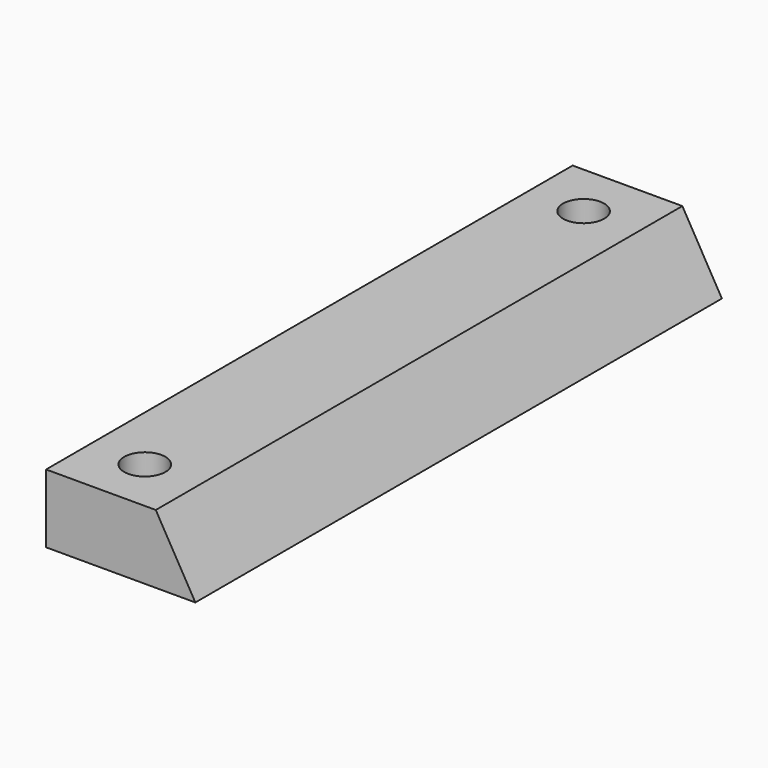
from build123d import *

# Parameters (mm, degrees)
F1_DEPTH = 152.4
F2_R     = 4.7625
F3_DEPTH = 25.4


with BuildPart() as f1:
    # F0 (on Front) → F1 (new body)
    with BuildSketch(Plane.XZ):
        Polygon((25.4, 0), (0, 0), (0, -15.875), (34.565436, -15.875), align=None)
    extrude(amount=F1_DEPTH)

    # F2 (on face) → F3 (cut)
    with BuildSketch(Plane.XY):
        with Locations((12.7, -12.7)):
            Circle(F2_R)
        with Locations((12.7, -139.7)):
            Circle(F2_R)
    extrude(amount=-F3_DEPTH, mode=Mode.SUBTRACT)


solid = f1.part
